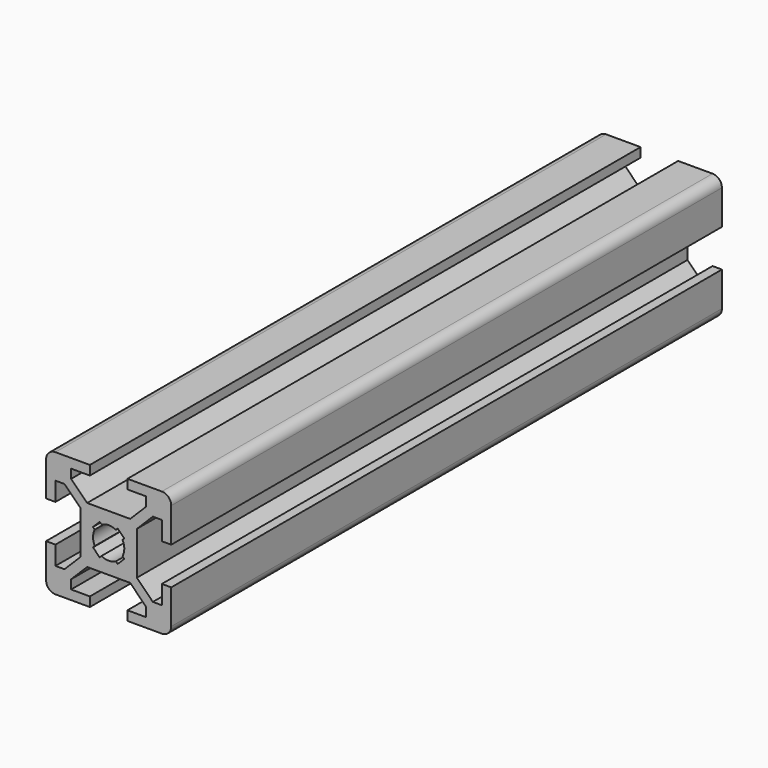
from build123d import *

# Parameters (mm, degrees)
F1_DEPTH = 110


with BuildPart() as f1:
    # F0 (on Front) → F1 (new body)
    with BuildSketch(Plane.XZ):
        with BuildLine():
            Line((3, -10), (8.5, -10))
            ThreePointArc((8.5, -10), (9.5606601718, -9.5606601718), (10, -8.5))
            Line((10, -8.5), (10, -3))
            Line((10, -3), (8.5, -3))
            Line((8.5, -3), (8.5, -6))
            Line((8.5, -6), (7.0606601718, -6))
            Line((7.0606601718, -6), (4.5, -3.4393398282))
            Line((4.5, -3.4393398282), (4.5, 3.4393398282))
            Line((4.5, 3.4393398282), (7.0606601718, 6))
            Line((7.0606601718, 6), (8.5, 6))
            Line((8.5, 6), (8.5, 3))
            Line((8.5, 3), (10, 3))
            Line((10, 3), (10, 8.5))
            ThreePointArc((10, 8.5), (9.5606601718, 9.5606601718), (8.5, 10))
            Line((8.5, 10), (3, 10))
            Line((3, 10), (3, 8.5))
            Line((3, 8.5), (6, 8.5))
            Line((6, 8.5), (6, 7.0606601718))
            Line((6, 7.0606601718), (3.4393398282, 4.5))
            Line((3.4393398282, 4.5), (-3.4393398282, 4.5))
            Line((-3.4393398282, 4.5), (-6, 7.0606601718))
            Line((-6, 7.0606601718), (-6, 8.5))
            Line((-6, 8.5), (-3, 8.5))
            Line((-3, 8.5), (-3, 10))
            Line((-3, 10), (-8.5, 10))
            ThreePointArc((-8.5, 10), (-9.5606601718, 9.5606601718), (-10, 8.5))
            Line((-10, 8.5), (-10, 3))
            Line((-10, 3), (-8.5, 3))
            Line((-8.5, 3), (-8.5, 6))
            Line((-8.5, 6), (-7.0606601718, 6))
            Line((-7.0606601718, 6), (-4.5, 3.4393398282))
            Line((-4.5, 3.4393398282), (-4.5, -3.4393398282))
            Line((-4.5, -3.4393398282), (-7.0606601718, -6))
            Line((-7.0606601718, -6), (-8.5, -6))
            Line((-8.5, -6), (-8.5, -3))
            Line((-8.5, -3), (-10, -3))
            Line((-10, -3), (-10, -8.5))
            ThreePointArc((-10, -8.5), (-9.5606601718, -9.5606601718), (-8.5, -10))
            Line((-8.5, -10), (-3, -10))
            Line((-3, -10), (-3, -8.5))
            Line((-3, -8.5), (-6, -8.5))
            Line((-6, -8.5), (-6, -7.0606601718))
            Line((-6, -7.0606601718), (-3.4393398282, -4.5))
            Line((-3.4393398282, -4.5), (3.4393398282, -4.5))
            Line((3.4393398282, -4.5), (6, -7.0606601718))
            Line((6, -7.0606601718), (6, -8.5))
            Line((6, -8.5), (3, -8.5))
            Line((3, -8.5), (3, -10))
        make_face()
        with BuildLine():
            ThreePointArc((-1.1560121095, 2.2166722813), (0, 2.5), (1.1560121095, 2.2166722813))
            Line((1.1560121095, 2.2166722813), (1.4393398282, 2.5))
            Line((1.4393398282, 2.5), (2.5, 1.4393398282))
            Line((2.5, 1.4393398282), (2.2166722813, 1.1560121095))
            ThreePointArc((2.2166722813, 1.1560121095), (2.5, 0), (2.2166722813, -1.1560121095))
            Line((2.2166722813, -1.1560121095), (2.5, -1.4393398282))
            Line((2.5, -1.4393398282), (1.4393398282, -2.5))
            Line((1.4393398282, -2.5), (1.1560121095, -2.2166722813))
            ThreePointArc((1.1560121095, -2.2166722813), (0, -2.5), (-1.1560121095, -2.2166722813))
            Line((-1.1560121095, -2.2166722813), (-1.4393398282, -2.5))
            Line((-1.4393398282, -2.5), (-2.5, -1.4393398282))
            Line((-2.5, -1.4393398282), (-2.2166722813, -1.1560121095))
            ThreePointArc((-2.2166722813, -1.1560121095), (-2.5, 0), (-2.2166722813, 1.1560121095))
            Line((-2.2166722813, 1.1560121095), (-2.5, 1.4393398282))
            Line((-2.5, 1.4393398282), (-1.4393398282, 2.5))
            Line((-1.4393398282, 2.5), (-1.1560121095, 2.2166722813))
        make_face(mode=Mode.SUBTRACT)
    extrude(amount=F1_DEPTH)


solid = f1.part
